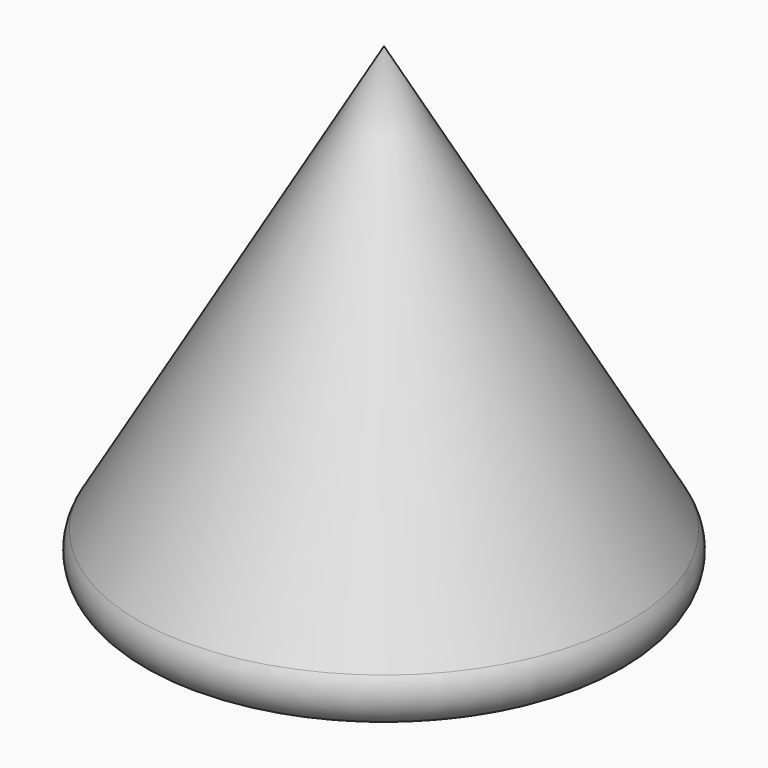
from build123d import *

# Parameters (mm, degrees)
F0_R     = 40.0481502626
F1_DEPTH = 203.2
F1_TAPER = 30
F2_R     = 5.08


with BuildPart() as f1:
    # F0 (on Top) → F1 (new body)
    with BuildSketch(Plane.XY):
        Circle(F0_R)
    extrude(amount=F1_DEPTH, taper=F1_TAPER)

    # F2
    f2_edges = [f1.edges().sort_by_distance(p)[0] for p in [
        (-40.04815, 0, 0),
        (20.024075, 0, 34.682716),
    ]]
    fillet(f2_edges, radius=F2_R)


solid = f1.part
